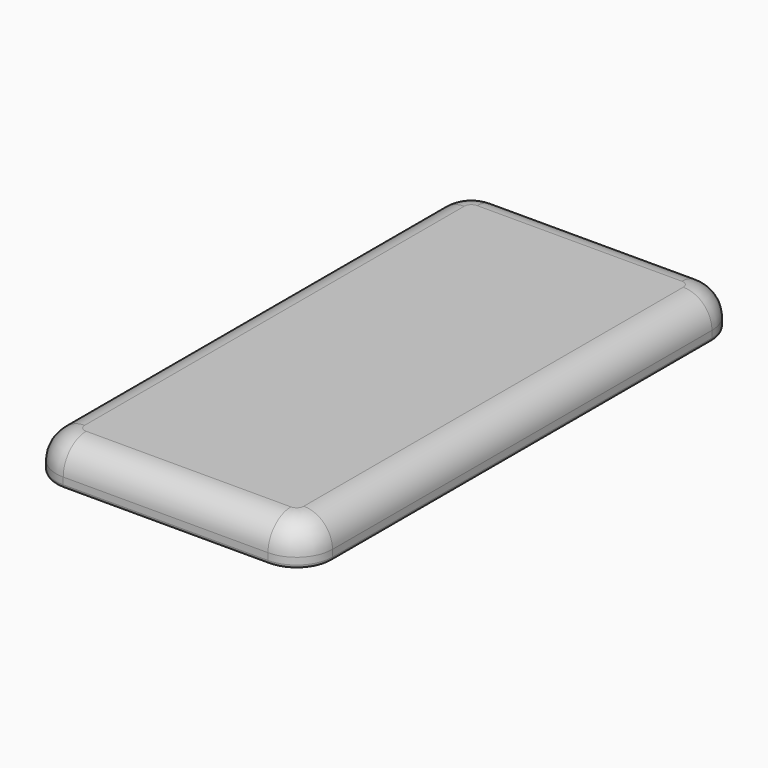
from build123d import *

# Parameters (mm, degrees)
F0_W     = 77.2
F0_H     = 152.5
F1_DEPTH = 10.9
F2_R     = 10
F3_R     = 8
F4_R     = 1


with BuildPart() as f1:
    # F0 (on Top) → F1 (new body)
    with BuildSketch(Plane.XY):
        Rectangle(F0_W, F0_H)
    extrude(amount=F1_DEPTH)

    # F2
    f2_edges = [f1.edges().sort_by_distance(p)[0] for p in [
        (38.6, 76.25, 5.45),
        (-38.6, 76.25, 5.45),
        (-38.6, -76.25, 5.45),
        (38.6, -76.25, 5.45),
    ]]
    fillet(f2_edges, radius=F2_R)

    # F3
    f3_edges = [f1.edges().sort_by_distance(p)[0] for p in [
        (0, -76.25, 10.9),
        (-35.671068, -73.321068, 10.9),
        (35.671068, -73.321068, 10.9),
        (-38.6, 0, 10.9),
        (38.6, 0, 10.9),
        (-35.671068, 73.321068, 10.9),
        (35.671068, 73.321068, 10.9),
        (0, 76.25, 10.9),
    ]]
    fillet(f3_edges, radius=F3_R)

    # F4
    f4_edges = [f1.edges().sort_by_distance(p)[0] for p in [
        (0, -76.25, 0),
        (-35.671068, -73.321068, 0),
        (35.671068, -73.321068, 0),
        (-38.6, 0, 0),
        (38.6, 0, 0),
        (-35.671068, 73.321068, 0),
        (35.671068, 73.321068, 0),
        (0, 76.25, 0),
    ]]
    fillet(f4_edges, radius=F4_R)


solid = f1.part
